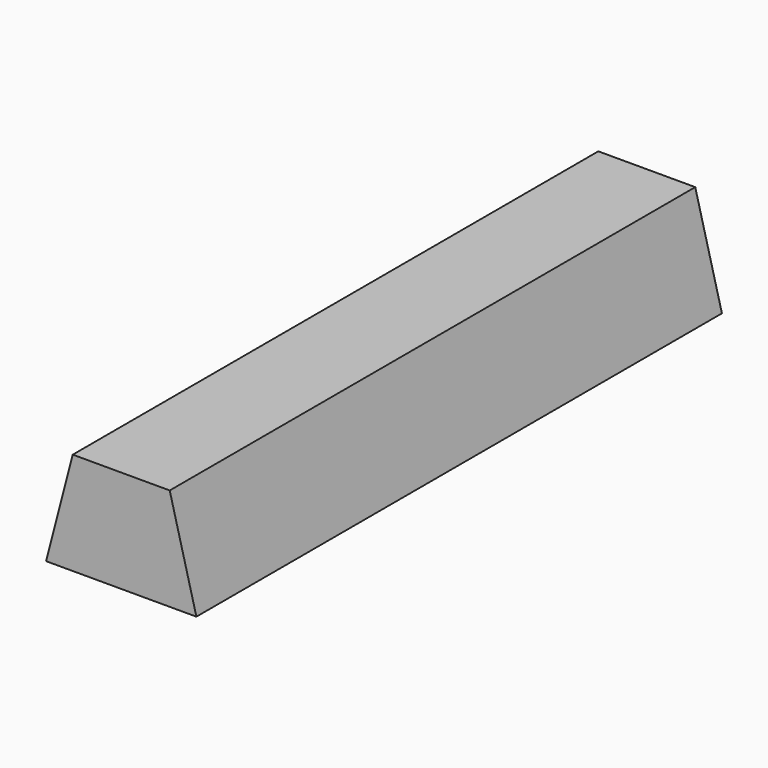
from build123d import *

# Parameters (mm, degrees)
F0_W     = 6.7855734378
F0_H     = 29.6549797058
F1_DEPTH = 4.6255332418
F3_DEPTH = 38.2742844522


with BuildPart() as f1:
    # F0 (on Top) → F1 (new body)
    with BuildSketch(Plane.XY):
        with Locations((3.3927867189, -14.8274898529)):
            Rectangle(F0_W, F0_H)
    extrude(amount=F1_DEPTH)

    # F2 (on face) → F3 (cut)
    with BuildSketch(Plane.XZ.offset(29.6549797058)):
        Polygon((5.5810882808, 4.6255332418), (6.7855734378, 0), (6.7855734378, 4.6255332418), align=None)
        Polygon((0, 4.6255332418), (0, 0), (1.204485157, 4.6255332418), align=None)
    extrude(amount=-F3_DEPTH, mode=Mode.SUBTRACT)


solid = f1.part
